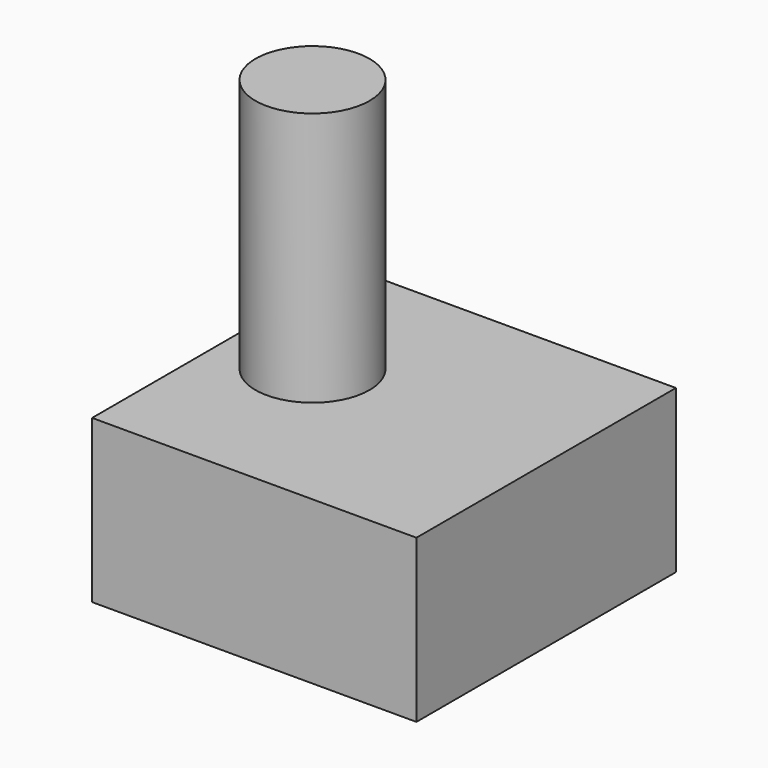
from build123d import *

# Parameters (mm, degrees)
F0_W     = 101.6
F0_H     = 50.8
F1_DEPTH = 101.6
F2_R     = 17.865074
F3_DEPTH = 79.756


with BuildPart() as f1:
    # F0 (on Front) → F1 (new body)
    with BuildSketch(Plane.XZ):
        Rectangle(F0_W, F0_H)
    extrude(amount=F1_DEPTH)

    # F2 (on face) → F3 (join)
    with BuildSketch(Plane.XY.offset(25.4)):
        with Locations((-24.884755, -47.69079)):
            Circle(F2_R)
    extrude(amount=F3_DEPTH)


solid = f1.part
